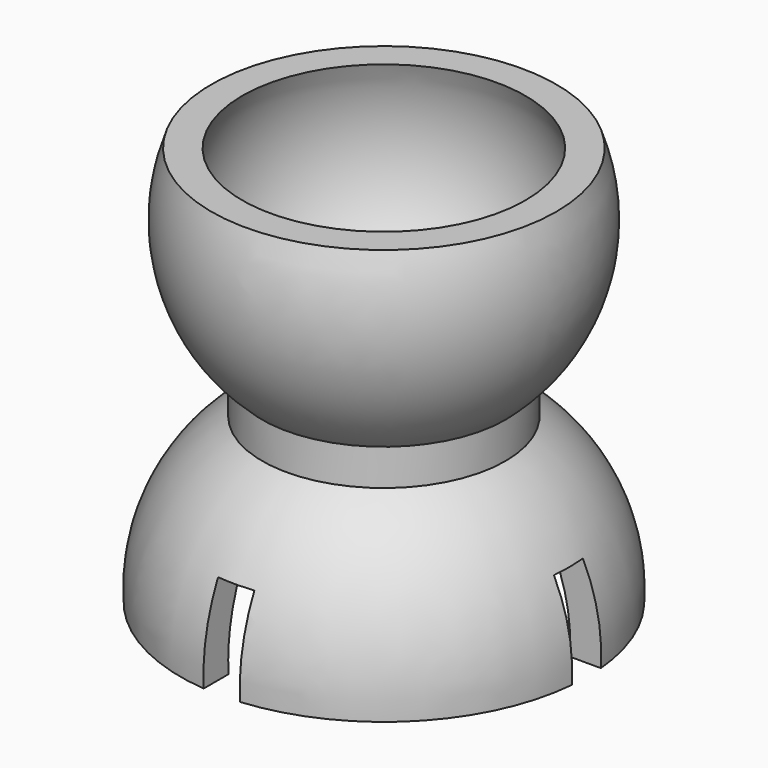
from build123d import *

# Parameters (mm, degrees)
F2_W     = 11.33868
F2_H     = 2
F2_W_2   = 2
F2_H_2   = 11.33868
F3_DEPTH = 5


with BuildPart() as f1:
    # F0 (on Front) → F1 (revolve)
    with BuildSketch(Plane.XZ):
        with BuildLine():
            ThreePointArc((7.8, 11), (8.352746, 5.002937), (5, 0))
            Line((5, 0), (5, -2))
            ThreePointArc((5, -2), (8.464459, -5.89277), (9.5, -11))
            Line((9.5, -11), (11.2, -11))
            ThreePointArc((11.2, -11), (10.164459, -5.89277), (6.7, -2))
            Line((6.7, -2), (6.7, 0))
            ThreePointArc((6.7, 0), (9.811941, 5.064233), (9.5, 11))
            Line((9.5, 11), (7.8, 11))
        make_face()
    revolve(axis=Axis((0, 0, 1.74589), (0, 0, 1)))

    # F2 (on face) → F3 (cut)
    with BuildSketch(Plane(origin=(0, 0, -11), x_dir=(1, 0, 0), z_dir=(0, 0, -1))):
        with Locations((-6.66934, 0)):
            Rectangle(F2_W, F2_H)
        with Locations((0, 6.66934)):
            Rectangle(F2_W_2, F2_H_2)
        with Locations((6.66934, 0)):
            Rectangle(F2_W, F2_H)
        with Locations((0, -6.66934)):
            Rectangle(F2_W_2, F2_H_2)
    extrude(amount=-F3_DEPTH, mode=Mode.SUBTRACT)


solid = f1.part
